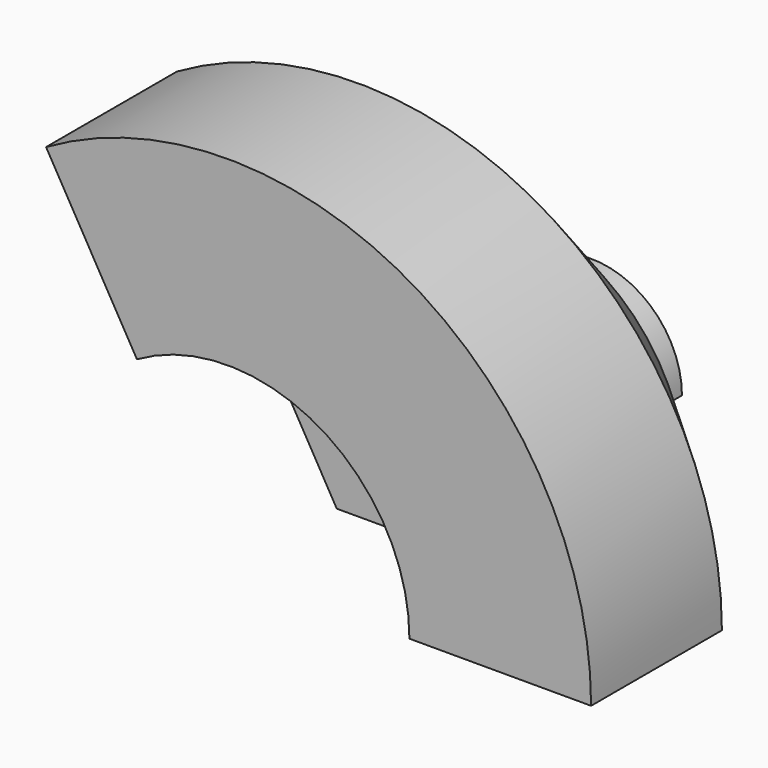
from build123d import *

# Parameters (mm, degrees)
F1_ANGLE = 120


with BuildPart() as f1:
    # F0 (on Top) → F1 (revolve)
    with BuildSketch(Plane.XY):
        Polygon((10, 35), (0, 35), (0, 0), (20, 0), (20, -15), (40, -15), (40, 3), (20, 23), (10, 23), align=None)
    revolve(axis=Axis((0, 17.5, 0), (0, -1, 0)), revolution_arc=F1_ANGLE)


solid = f1.part
